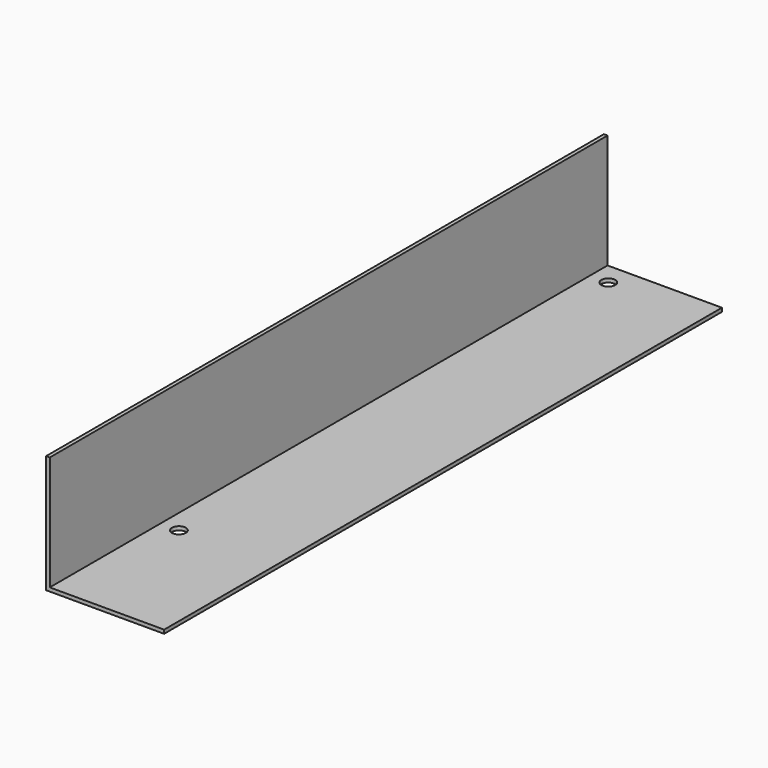
from build123d import *

# Parameters (mm, degrees)
F1_DEPTH = 300
F2_R     = 3
F3_DEPTH = 50.801


with BuildPart() as f1:
    # F0 (on Front) → F1 (new body)
    with BuildSketch(Plane.XZ):
        Polygon((0, 50.8), (0, 0), (50.8, 0), (50.8, 1.59), (1.59, 1.59), (1.59, 50.8), align=None)
    extrude(amount=F1_DEPTH)

    # F2 (on Top) → F3 (cut, through all)
    with BuildSketch(Plane.XY):
        with Locations((9.525, -9.525)):
            Circle(F2_R)
        with Locations((9.525, -240.475)):
            Circle(F2_R)
    extrude(amount=F3_DEPTH, mode=Mode.SUBTRACT)


solid = f1.part
